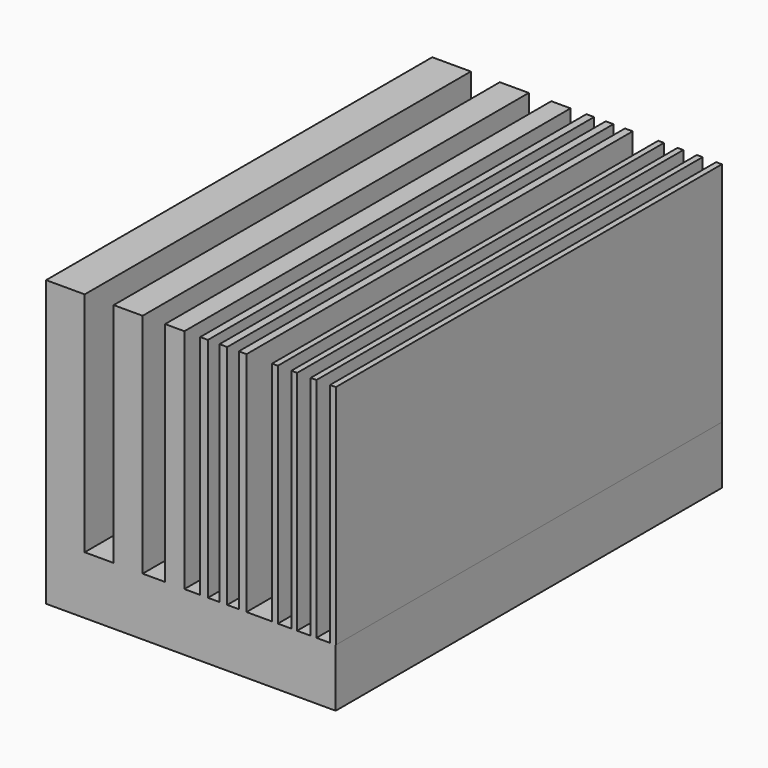
from build123d import *

# Parameters (mm, degrees)
F0_W     = 5.08
F0_H     = 25.4
F0_W_2   = 2.54
F0_W_3   = 3.81
F1_DEPTH = 40
F3_W     = 2
F3_H     = 11.758205078
F3_W_2   = 1.5
F3_W_3   = 1
F3_W_4   = 0.3
F3_W_5   = 0.4
F4_DEPTH = 12.5


with BuildPart() as f1:
    # F0 (on Front) → F1 (new body)
    with BuildSketch(Plane.XZ):
        Polygon((-39.5374095005, -17.8057016992), (-44.6174095005, -17.8057016992), (-44.6174095005, -22.8857016992), (56.9825904995, -22.8857016992), (56.9825904995, -17.8057016992), (51.9025904995, -17.8057016992), (40.6538585508, -17.8057016992), (38.1138585508, -17.8057016992), (25.9218535846, -17.8057016992), (22.1118535846, -17.8057016992), (8.1349273361, -17.8057016992), (3.0549273361, -17.8057016992), (-17.8261825508, -17.8057016992), (-20.3661825508, -17.8057016992), (-27.4666358256, -17.8057016992), (-31.2766358256, -17.8057016992), align=None)
        with Locations((54.4425904995, -5.1057016992)):
            Rectangle(F0_W, F0_H)
        with Locations((39.3838585508, -5.1057016992)):
            Rectangle(F0_W_2, F0_H)
        with Locations((24.0168535846, -5.1057016992)):
            Rectangle(F0_W_3, F0_H)
        with Locations((5.5949273361, -5.1057016992)):
            Rectangle(F0_W, F0_H)
        with Locations((-29.3716358256, -5.1057016992)):
            Rectangle(F0_W_3, F0_H)
        with Locations((-42.0774095005, -5.1057016992)):
            Rectangle(F0_W, F0_H)
        with Locations((-19.0961825508, -5.1057016992)):
            Rectangle(F0_W_2, F0_H)
    extrude(amount=F1_DEPTH)


with BuildPart() as f4:
    # F3 (on Front) → F4 (new body, symmetric)
    with BuildSketch(Plane.XZ):
        with Locations((-14.0355701865, -5.879102539)):
            Rectangle(F3_W, F3_H)
        Polygon((-13.0355701865, -11.758205078), (-15.0355701865, -11.758205078), (-15.0355701865, -14.758205078), (-0.0355701865, -14.758205078), (-0.0355701865, -11.758205078), (-0.3316470217, -11.758205078), (-1.0316470217, -11.758205078), (-1.3316470217, -11.758205078), (-2.0316470217, -11.758205078), (-2.3316470217, -11.758205078), (-3.0316470217, -11.758205078), (-3.3316470217, -11.758205078), (-4.6532104, -11.758205078), (-5.0532104, -11.758205078), (-5.6532104, -11.758205078), (-6.0532104, -11.758205078), (-6.6532104, -11.758205078), (-7.0532104, -11.758205078), (-7.870703689, -11.758205078), (-8.870703689, -11.758205078), (-10.0352638757, -11.758205078), (-11.5352638757, -11.758205078), align=None)
        with Locations((-10.7852638757, -5.879102539)):
            Rectangle(F3_W_2, F3_H)
        Polygon((-0.3316470217, -11.758205078), (-0.0355701865, -11.758205078), (-0.0316470217, -11.758205078), (-0.0316470217, 0), (-0.3316470217, 0), align=None)
        with Locations((-8.370703689, -5.879102539)):
            Rectangle(F3_W_3, F3_H)
        with Locations((-1.1816470217, -5.879102539)):
            Rectangle(F3_W_4, F3_H)
        with Locations((-6.8532104, -5.879102539)):
            Rectangle(F3_W_5, F3_H)
        with Locations((-2.1816470217, -5.879102539)):
            Rectangle(F3_W_4, F3_H)
        with Locations((-5.8532104, -5.879102539)):
            Rectangle(F3_W_5, F3_H)
        with Locations((-3.1816470217, -5.879102539)):
            Rectangle(F3_W_4, F3_H)
        with Locations((-4.8532104, -5.879102539)):
            Rectangle(F3_W_5, F3_H)
    extrude(amount=F4_DEPTH, both=True)


solid = f4.part
